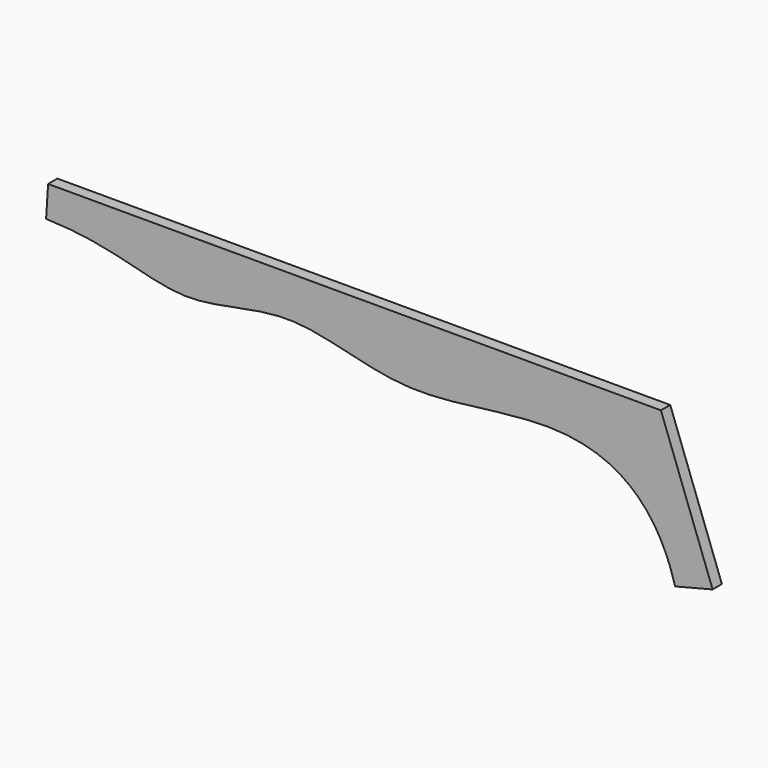
from build123d import *

# Parameters (mm, degrees)
F1_DEPTH = 1.5


with BuildPart() as f1:
    # F0 (on Front) → F1 (new body)
    with BuildSketch(Plane.XZ):
        with BuildLine():
            Line((6.6608022898, -18.1537084281), (0, 0))
            Line((0, 0), (-78.95642519, 0))
            Line((-78.95642519, 0), (-79.2163778049, -4.0501126672))
            add(Edge.make_bspline(
                [(-79.2163778049, -4.0501126672), (-70.4604872243, -4.2573912418), (-62.308066849, -9.142647075), (-47.5508858382, -3.2885589411), (-32.4826792433, -10.2047481861), (-11.6050604426, -3.9211183288), (-0.5566575437, -10.7093292226), (1.8360690372, -19.3840636782)],
                knots=[0, 0, 0, 0, 0.2060728117, 0.382240895, 0.573422843, 0.7902476984, 1, 1, 1, 1], degree=3))
            Line((1.8360690372, -19.3840636782), (6.6608022898, -18.1537084281))
        make_face()
    extrude(amount=F1_DEPTH)


solid = f1.part
